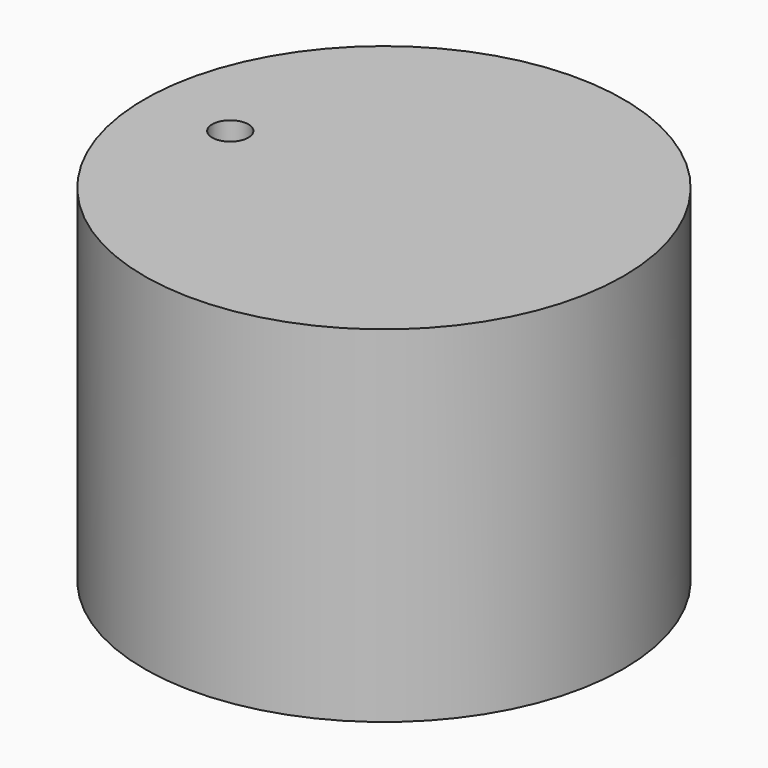
from build123d import *

# Parameters (mm, degrees)
F0_R     = 62.532772
F0_R_2   = 4.722856
F1_DEPTH = 90.253798


with BuildPart() as f1:
    # F0 (on Top) → F1 (new body)
    with BuildSketch(Plane.XY):
        with Locations((40.121004, 0)):
            Circle(F0_R)
        Circle(F0_R_2, mode=Mode.SUBTRACT)
    extrude(amount=F1_DEPTH)


solid = f1.part
